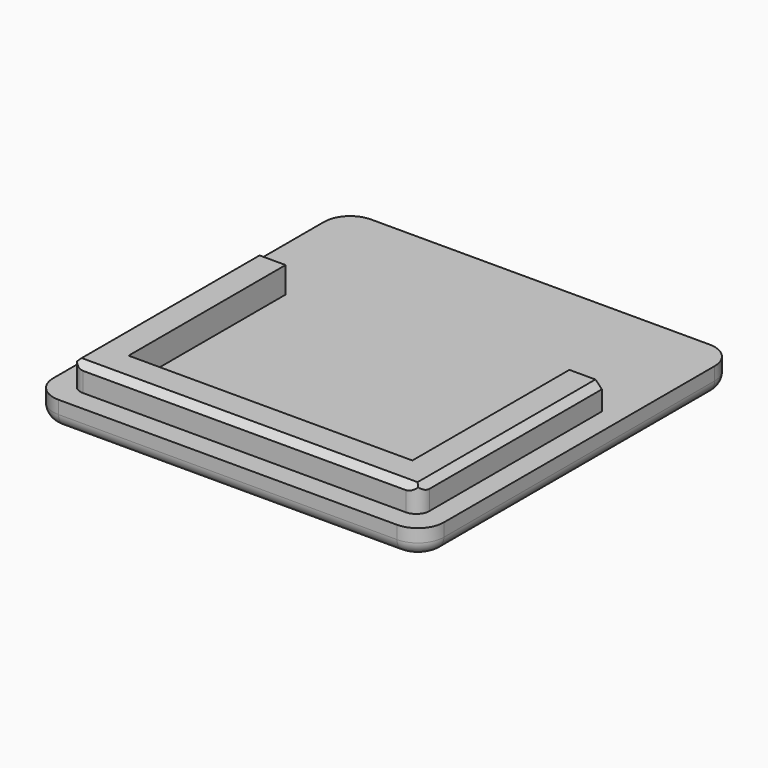
from build123d import *

# Parameters (mm, degrees)
F0_W     = 30
F0_H     = 30
F1_DEPTH = 2
F2_DEPTH = 4
F3_R     = 2
F4_SIZE  = 0.5
F5_R     = 1
F6_R     = 1


with BuildPart() as f1:
    # F0 (on Top) → F1 (new body)
    with BuildSketch(Plane.XY):
        Rectangle(F0_W, F0_H)
        Polygon((-13.4, 13.4), (13.4, 13.4), (13.4, 4.1756560095), (13.4, -13.4), (-13.4, -13.4), (-13.4, 4.1756560095), align=None, mode=Mode.SUBTRACT)
        Polygon((13.4, 4.1756560095), (13.4, 13.4), (-13.4, 13.4), (-13.4, 4.1756560095), (-10.9, 4.1756560095), (-10.9, -10.9), (10.9, -10.9), (10.9, 4.1756560095), align=None)
        Polygon((13.4, -13.4), (13.4, 4.1756560095), (10.9, 4.1756560095), (10.9, -10.9), (-10.9, -10.9), (-10.9, 4.1756560095), (-13.4, 4.1756560095), (-13.4, -13.4), align=None)
    extrude(amount=F1_DEPTH)

    # F0 (on Top) → F2 (join)
    with BuildSketch(Plane.XY):
        Polygon((13.4, -13.4), (13.4, 4.1756560095), (10.9, 4.1756560095), (10.9, -10.9), (-10.9, -10.9), (-10.9, 4.1756560095), (-13.4, 4.1756560095), (-13.4, -13.4), align=None)
    extrude(amount=F2_DEPTH)

    # F3
    f3_edges = [f1.edges().sort_by_distance(p)[0] for p in [
        (-15, -15, 1),
        (-15, 15, 1),
        (15, 15, 1),
        (15, -15, 1),
    ]]
    fillet(f3_edges, radius=F3_R)

    # F4
    f4_edges = [f1.edges().sort_by_distance(p)[0] for p in [
        (13.4, -4.612172, 4),
        (0, -13.4, 4),
        (-13.4, -4.612172, 4),
    ]]
    chamfer(f4_edges, length=F4_SIZE)

    # F5
    f5_edges = [f1.edges().sort_by_distance(p)[0] for p in [
        (0, 15, 0),
    ]]
    fillet(f5_edges, radius=F5_R)

    # F6
    f6_edges = [f1.edges().sort_by_distance(p)[0] for p in [
        (13.4, -13.4, 2.75),
        (-13.4, -13.4, 2.75),
    ]]
    fillet(f6_edges, radius=F6_R)


solid = f1.part
